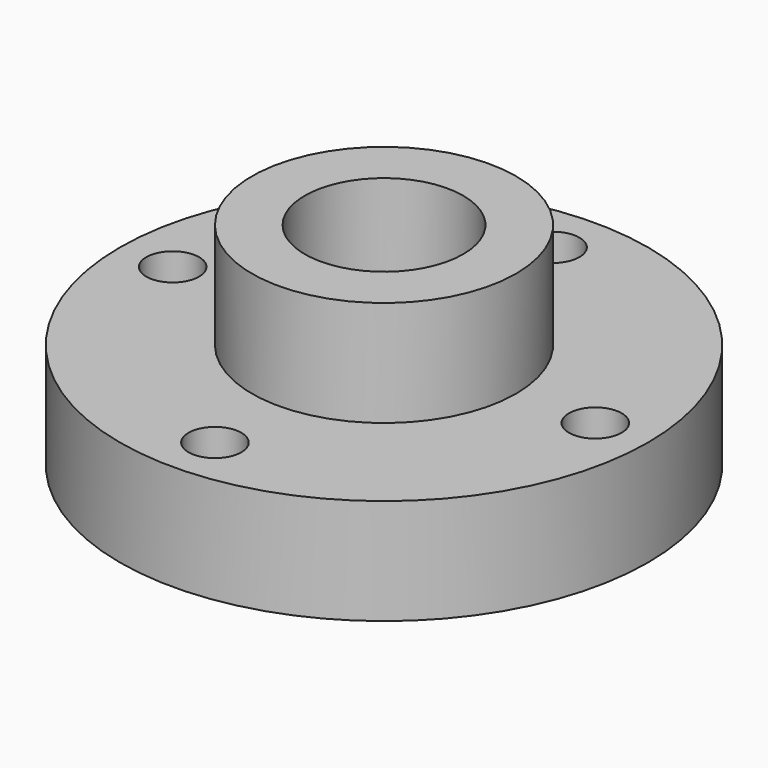
from build123d import *

# Parameters (mm, degrees)
F0_R     = 31.75
F0_R_2   = 3.175
F0_R_3   = 15.875
F1_DEPTH = 12.7
F0_R_4   = 9.525
F2_DEPTH = 12.7


with BuildPart() as f1:
    # F0 (on Top) → F1 (new body)
    with BuildSketch(Plane.XY):
        Circle(F0_R)
        with Locations((0, -25.4)):
            Circle(F0_R_2, mode=Mode.SUBTRACT)
        with Locations((25.4, 0)):
            Circle(F0_R_2, mode=Mode.SUBTRACT)
        with Locations((-25.4, 0)):
            Circle(F0_R_2, mode=Mode.SUBTRACT)
        Circle(F0_R_3, mode=Mode.SUBTRACT)
        with Locations((0, 25.4)):
            Circle(F0_R_2, mode=Mode.SUBTRACT)
    extrude(amount=-F1_DEPTH)

    # F0 (on Top) → F2 (join, symmetric)
    with BuildSketch(Plane.XY):
        Circle(F0_R_3)
        Circle(F0_R_4, mode=Mode.SUBTRACT)
    extrude(amount=F2_DEPTH, both=True)


solid = f1.part
